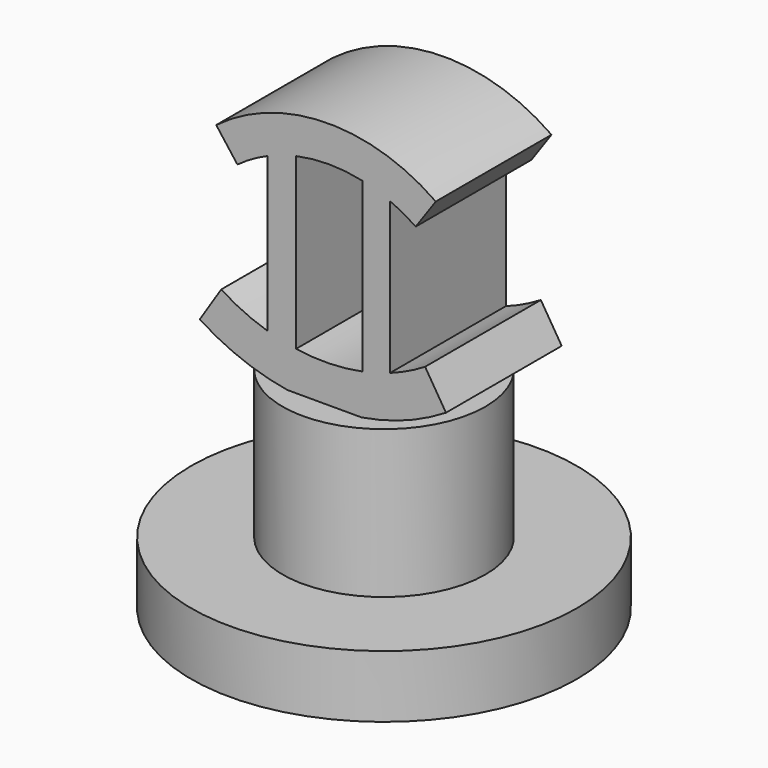
from build123d import *

# Parameters (mm, degrees)
F0_W     = 32.1691036224
F0_H     = 10.3981345892
F2_R     = 16.9245679208
F3_DEPTH = 35.052
F5_DEPTH = 12.446
F6_DEPTH = 11.684


with BuildPart() as f1:
    # F0 (on Front) → F1 (revolve)
    with BuildSketch(Plane.XZ):
        with Locations((16.0845518112, 5.1990672946)):
            Rectangle(F0_W, F0_H)
    revolve(axis=Axis((0, 0, 5.1990672946), (0, 0, -1)))

    # F2 (on Top) → F3 (join)
    with BuildSketch(Plane.XY):
        Circle(F2_R)
    extrude(amount=F3_DEPTH)

    # F4 (on Front) → F5 (join)
    with BuildSketch(Plane.XZ):
        with BuildLine():
            Line((-17.2026802681, 46.2241524707), (-20.7758424342, 40.6702971151))
            ThreePointArc((-20.7758424342, 40.6702971151), (-0.2905255832, 34.5539512873), (20.2953913573, 40.3226527435))
            Line((20.2953913573, 40.3226527435), (16.8152843817, 45.9352860484))
            ThreePointArc((16.8152843817, 45.9352860484), (-0.2354935112, 41.1577205632), (-17.2026802681, 46.2241524707))
        make_face()
        with BuildLine():
            ThreePointArc((-9.4536782582, 42.6405122732), (-13.4477491949, 44.1737830783), (-17.2026802681, 46.2241524707))
            ThreePointArc((-17.2026802681, 46.2241524707), (-0.2354935112, 41.1577205632), (16.8152843817, 45.9352860484))
            ThreePointArc((16.8152843817, 45.9352860484), (13.9600425927, 44.3798005754), (10.962201674, 43.1208762102))
            ThreePointArc((10.962201674, 43.1208762102), (8.6813208555, 42.3910598969), (6.3524134113, 41.833171668))
            ThreePointArc((6.3524134113, 41.833171668), (0.8301071261, 41.2162515517), (-4.7159024645, 41.5601043652))
            ThreePointArc((-4.7159024645, 41.5601043652), (-7.1052467262, 42.0106036166), (-9.4536782582, 42.6405122732))
        make_face()
        with BuildLine():
            Line((-9.4536782582, 68.3503676295), (-9.4536782582, 42.6405122732))
            ThreePointArc((-9.4536782582, 42.6405122732), (-7.1052467262, 42.0106036166), (-4.7159024645, 41.5601043652))
            Line((-4.7159024645, 41.5601043652), (-4.7159024645, 69.8749349594))
            ThreePointArc((-4.7159024645, 69.8749349594), (-7.1217660809, 69.2275577769), (-9.4536782582, 68.3503676295))
        make_face()
        with BuildLine():
            ThreePointArc((6.3524134113, 41.833171668), (8.6813208555, 42.3910598969), (10.962201674, 43.1208762102))
            Line((10.962201674, 43.1208762102), (10.962201674, 68.3503676295))
            ThreePointArc((10.962201674, 68.3503676295), (8.6926434954, 69.2074051813), (6.3524134113, 69.8467257929))
            Line((6.3524134113, 69.8467257929), (6.3524134113, 41.833171668))
        make_face()
        with BuildLine():
            ThreePointArc((-14.4961847769, 65.4524759376), (-12.0571318242, 67.0444552804), (-9.4536782582, 68.3503676295))
            ThreePointArc((-9.4536782582, 68.3503676295), (-7.1217660809, 69.2275577769), (-4.7159024645, 69.8749349594))
            ThreePointArc((-4.7159024645, 69.8749349594), (0.8197914056, 70.4634778759), (6.3524134113, 69.8467257929))
            ThreePointArc((6.3524134113, 69.8467257929), (8.6926434954, 69.2074051813), (10.962201674, 68.3503676295))
            ThreePointArc((10.962201674, 68.3503676295), (13.155285497, 67.2753192406), (15.2364689754, 65.9970309232))
            ThreePointArc((15.2364689754, 65.9970309232), (0.2813076758, 70.5751050434), (-14.4961847769, 65.4524759376))
        make_face()
        with BuildLine():
            Line((-18.0290771655, 70.1051802942), (-14.4961847769, 65.4524759376))
            ThreePointArc((-14.4961847769, 65.4524759376), (0.2813076758, 70.5751050434), (15.2364689754, 65.9970309232))
            Line((15.2364689754, 65.9970309232), (18.5930212877, 70.7785100912))
            ThreePointArc((18.5930212877, 70.7785100912), (0.1721303263, 76.4160867046), (-18.0290771655, 70.1051802942))
        make_face()
    extrude(amount=F5_DEPTH)

    # F6 (add): a face of the model
    f6_faces = [f1.faces().sort_by_distance(p)[0] for p in [
        (-13.6924417201, 0, 43.6446778209),
    ]]
    extrude(f6_faces, amount=F6_DEPTH)


solid = f1.part
